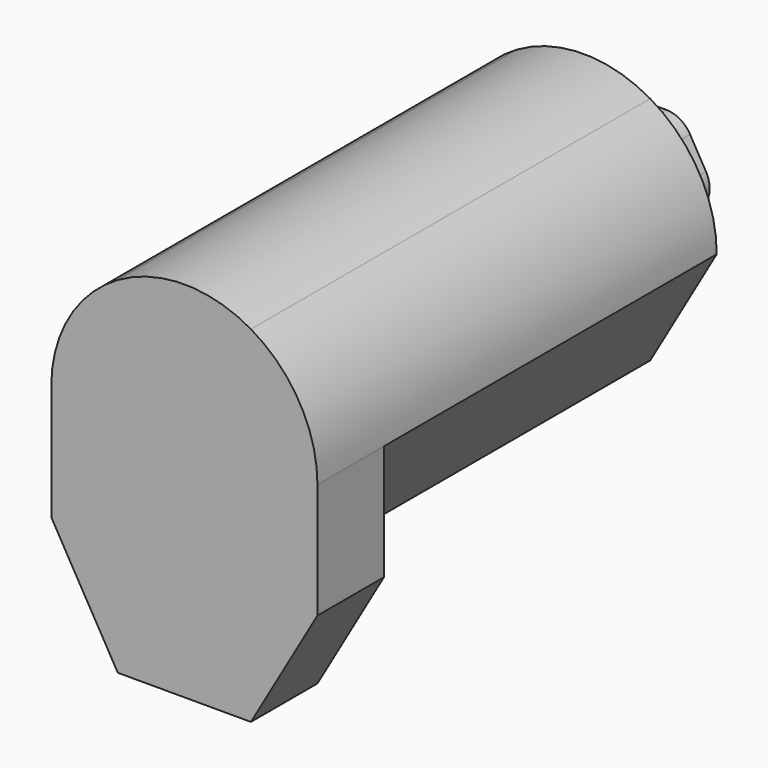
from build123d import *

# Parameters (mm, degrees)
F1_DEPTH = 45
F3_DEPTH = 15
F4_W     = 19
F4_H     = 8
F5_DEPTH = 6
F7_DEPTH = 15
F8_R     = 3
F9_R     = 5


with BuildPart() as f1:
    # F0 (on Front) → F1 (new body, symmetric)
    with BuildSketch(Plane.XZ):
        Polygon((12, -20.78461), (24, 0), (12, 20.78461), (-12, 20.78461), (-24, 0), (-12, -20.78461), align=None)
        with BuildLine():
            Line((12, 20.78461), (24, 0))
            ThreePointArc((24, 0), (20.78461, 12), (12, 20.78461))
        make_face()
        with BuildLine():
            Line((-12, 20.78461), (12, 20.78461))
            ThreePointArc((12, 20.78461), (0, 24), (-12, 20.78461))
        make_face()
        with BuildLine():
            Line((-24, 0), (-12, 20.78461))
            ThreePointArc((-12, 20.78461), (-20.78461, 12), (-24, 0))
        make_face()
    extrude(amount=F1_DEPTH, both=True)

    # F2 (on face) → F3 (join)
    with BuildSketch(Plane.XZ.offset(45)):
        Polygon((-12, -41.569219), (12, -41.569219), (24, -20.78461), (12, 0), (-12, 0), (-24, -20.78461), align=None)
        Polygon((-24, 0), (-24, -20.78461), (-18, -10.392305), align=None)
        Polygon((18, -10.392305), (24, -20.78461), (24, 0), align=None)
    extrude(amount=-F3_DEPTH)

    # F4 (on face) → F5 (cut)
    with BuildSketch(Plane(origin=(0, 0, -41.569219), x_dir=(1, 0, 0), z_dir=(0, 0, -1))):
        with Locations((0, 37.5)):
            Rectangle(F4_W, F4_H)
    extrude(amount=-F5_DEPTH, mode=Mode.SUBTRACT)

    # F6 (on face) → F7 (join)
    with BuildSketch(Plane(origin=(0, 45, 0), x_dir=(-1, 0, 0), z_dir=(0, 1, 0))):
        Polygon((5.75, -9.959292), (11.5, 0), (5.75, 9.959292), (-5.75, 9.959292), (-11.5, 0), (-5.75, -9.959292), align=None)
    extrude(amount=F7_DEPTH)

    # F8
    f8_edges = [f1.edges().sort_by_distance(p)[0] for p in [
        (9.5, -37.5, -35.569219),
        (0, -41.5, -35.569219),
        (-9.5, -37.5, -35.569219),
        (0, -33.5, -35.569219),
    ]]
    fillet(f8_edges, radius=F8_R)

    # F9
    f9_edges = [f1.edges().sort_by_distance(p)[0] for p in [
        (11.5, 52.5, 0),
        (5.75, 52.5, 9.959292),
        (-5.75, 52.5, 9.959292),
        (-11.5, 52.5, 0),
        (-5.75, 52.5, -9.959292),
        (5.75, 52.5, -9.959292),
    ]]
    fillet(f9_edges, radius=F9_R)


solid = f1.part
